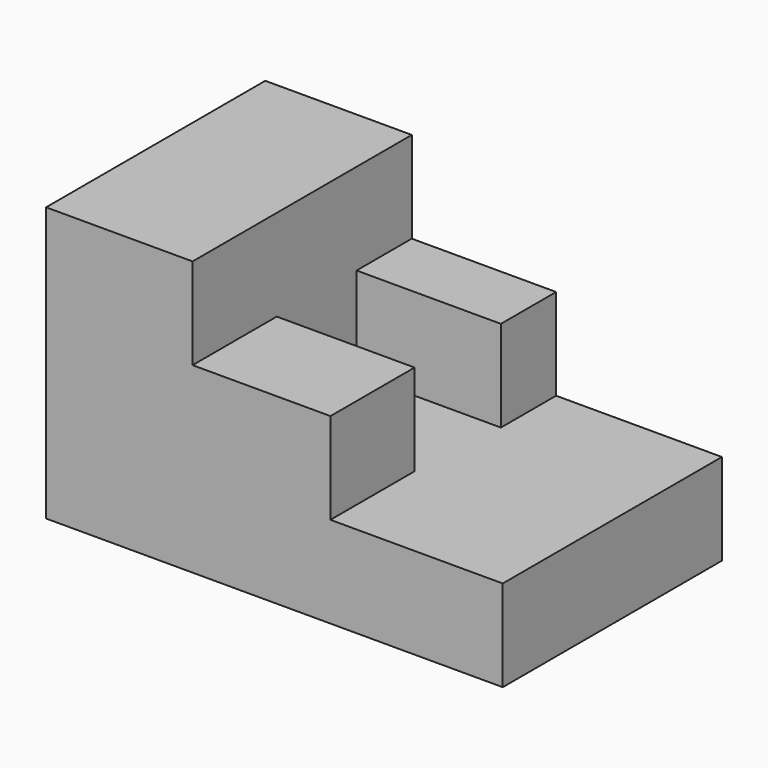
from build123d import *

# Parameters (mm, degrees)
F0_W     = 127
F0_H     = 76.2
F1_DEPTH = 25.4
F2_W     = 40.7456940264
F2_H     = 76.2
F3_DEPTH = 50.8
F4_W     = 40.1406884193
F4_H     = 19.1947049409
F5_DEPTH = 25.4
F6_W     = 38.3402202278
F6_H     = 29.2502096802
F7_DEPTH = 25.4


with BuildPart() as f1:
    # F0 (on Top) → F1 (new body)
    with BuildSketch(Plane.XY):
        Rectangle(F0_W, F0_H)
    extrude(amount=F1_DEPTH)

    # F2 (on face) → F3 (join)
    with BuildSketch(Plane.XY.offset(25.4)):
        with Locations((-43.1271529868, 0)):
            Rectangle(F2_W, F2_H)
    extrude(amount=F3_DEPTH)

    # F4 (on face) → F5 (join)
    with BuildSketch(Plane.XY.offset(25.4)):
        with Locations((-2.683961764, 28.5026475295)):
            Rectangle(F4_W, F4_H)
    extrude(amount=F5_DEPTH)

    # F6 (on face) → F7 (join)
    with BuildSketch(Plane.XY.offset(25.4)):
        with Locations((-3.5841958597, -23.4748951599)):
            Rectangle(F6_W, F6_H)
    extrude(amount=F7_DEPTH)


solid = f1.part
